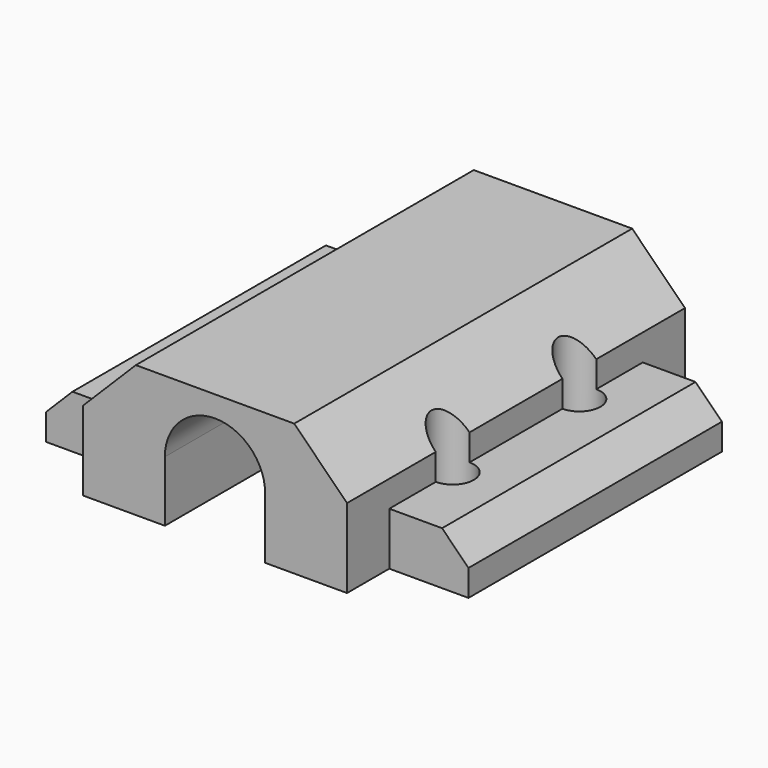
from build123d import *

# Parameters (mm, degrees)
SKETCH_R          = 4
PAD_DEPTH         = 25
POCKET_DEPTH      = 70.001
POCKET_DEPTH_BACK = 10.001
PAD001_DEPTH      = 11.78


with BuildPart() as part:
    # Sketch → Pad (new body)
    with BuildSketch(Plane.XY):
        Polygon((40, 15), (40, -15), (40, -45), (25, -45), (25, -55), (-25, -55), (-25, -45), (-40, -45), (-40, -15), (-40, 15), (-25, 15), (-25, 25), (25, 25), (25, 15), align=None)
        with Locations((-25, 0)):
            Circle(SKETCH_R, mode=Mode.SUBTRACT)
        with Locations((25, 0)):
            Circle(SKETCH_R, mode=Mode.SUBTRACT)
        with Locations((-25, -30)):
            Circle(SKETCH_R, mode=Mode.SUBTRACT)
        with Locations((25, -30)):
            Circle(SKETCH_R, mode=Mode.SUBTRACT)
    extrude(amount=PAD_DEPTH)

    # Sketch001 → Pocket (cut, two sides)
    with BuildSketch(Plane(origin=(0, 15, 0), x_dir=(-1, 0, 0), z_dir=(0, 1, 0))) as pocket_sk:
        with BuildLine():
            ThreePointArc((9.5, 11.5), (0, 21), (-9.5, 11.5))
            Line((-9.5, 11.5), (-9.5, 0))
            Line((-9.5, 0), (0, 0))
            Line((0, 0), (9.5, 0))
            Line((9.5, 0), (9.5, 11.5))
        make_face()
        Polygon((-40, 5), (-35, 10), (-25, 10), (-25, 15), (-15, 25), (-40, 25), align=None)
        Polygon((40, 5), (35, 10), (25, 10), (25, 15), (15, 25), (40, 25), align=None)
    extrude(amount=-POCKET_DEPTH, mode=Mode.SUBTRACT)
    extrude(pocket_sk.sketch, amount=POCKET_DEPTH_BACK, mode=Mode.SUBTRACT)

    # Sketch002 → Pad001 (new body)
    with BuildSketch(Plane(origin=(0, 25, 0), x_dir=(-1, 0, 0), z_dir=(0, 1, 0))):
        with BuildLine():
            Line((-9.5, 0), (-6.5, 0))
            Line((-6.5, 0), (-6.5, 11.5))
            ThreePointArc((6.5, 11.5), (0, 18), (-6.5, 11.5))
            Line((6.5, 11.5), (6.5, 0))
            Line((6.5, 0), (9.5, 0))
            Line((9.5, 0), (9.5, 11.5))
            ThreePointArc((9.5, 11.5), (0, 21), (-9.5, 11.5))
            Line((-9.5, 11.5), (-9.5, 0))
        make_face()
    extrude(amount=-PAD001_DEPTH)


solid = part.part
